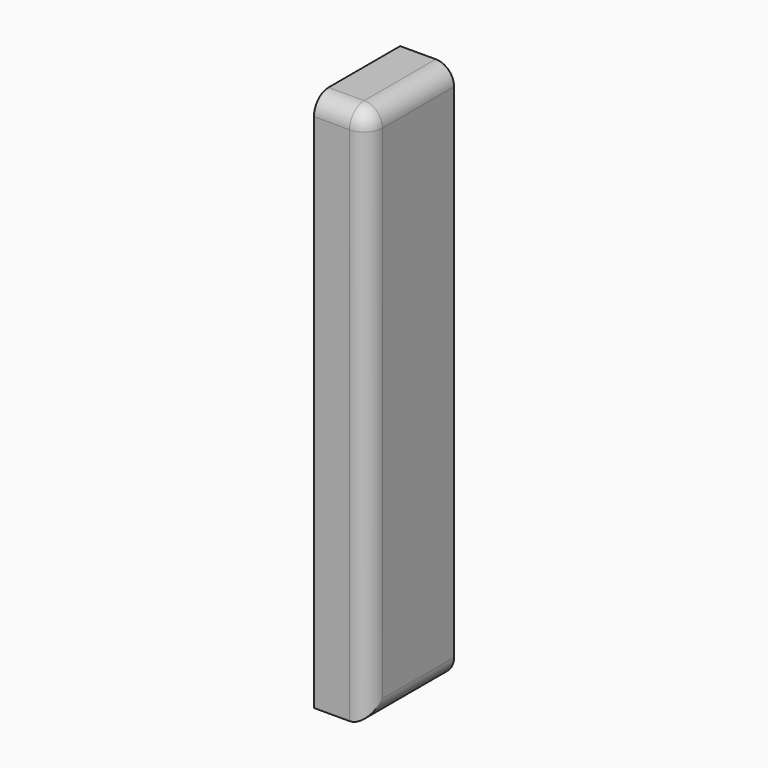
from build123d import *

# Parameters (mm, degrees)
F0_W     = 15
F0_H     = 30
F1_DEPTH = 150
F2_R     = 5.08
F3_R     = 5.08


with BuildPart() as f1:
    # F0 (on Top) → F1 (new body)
    with BuildSketch(Plane.XY):
        with Locations((-0.622407, 7.366808)):
            Rectangle(F0_W, F0_H)
    extrude(amount=F1_DEPTH)

    # F2
    f2_edges = [f1.edges().sort_by_distance(p)[0] for p in [
        (6.877593, -7.633192, 75),
        (6.877593, 7.366808, 0),
    ]]
    fillet(f2_edges, radius=F2_R)

    # F3
    f3_edges = [f1.edges().sort_by_distance(p)[0] for p in [
        (6.877593, 9.906808, 150),
    ]]
    fillet(f3_edges, radius=F3_R)


solid = f1.part
